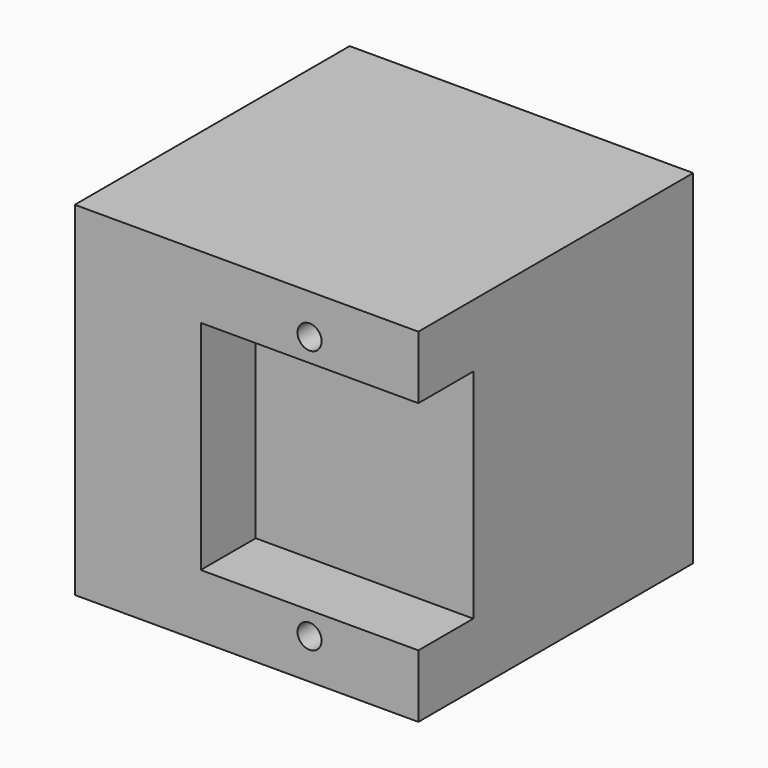
from build123d import *

# Parameters (mm, degrees)
F0_W     = 30
F0_H     = 30
F1_DEPTH = 30
F2_R     = 3
F3_DEPTH = 6
F4_W     = 19
F4_H     = 19
F5_DEPTH = 6
F6_R     = 1.05
F7_DEPTH = 9.3


with BuildPart() as f1:
    # F0 (on Right) → F1 (new body)
    with BuildSketch(Plane.YZ):
        Rectangle(F0_W, F0_H)
    extrude(amount=F1_DEPTH)

    # F2 (on face) → F3 (cut)
    with BuildSketch(Plane(origin=(0, 0, 0), x_dir=(0, -1, 0), z_dir=(-1, 0, 0))):
        Circle(F2_R)
    extrude(amount=-F3_DEPTH, mode=Mode.SUBTRACT)

    # F4 (on face) → F5 (cut)
    with BuildSketch(Plane.XZ.offset(15)):
        with Locations((20.5, 0)):
            Rectangle(F4_W, F4_H)
    extrude(amount=-F5_DEPTH, mode=Mode.SUBTRACT)

    # F6 (on face) → F7 (cut)
    with BuildSketch(Plane.XZ.offset(15)):
        with Locations((20.5, 11.5)):
            Circle(F6_R)
        with Locations((20.5, -11.5)):
            Circle(F6_R)
    extrude(amount=-F7_DEPTH, mode=Mode.SUBTRACT)


solid = f1.part
